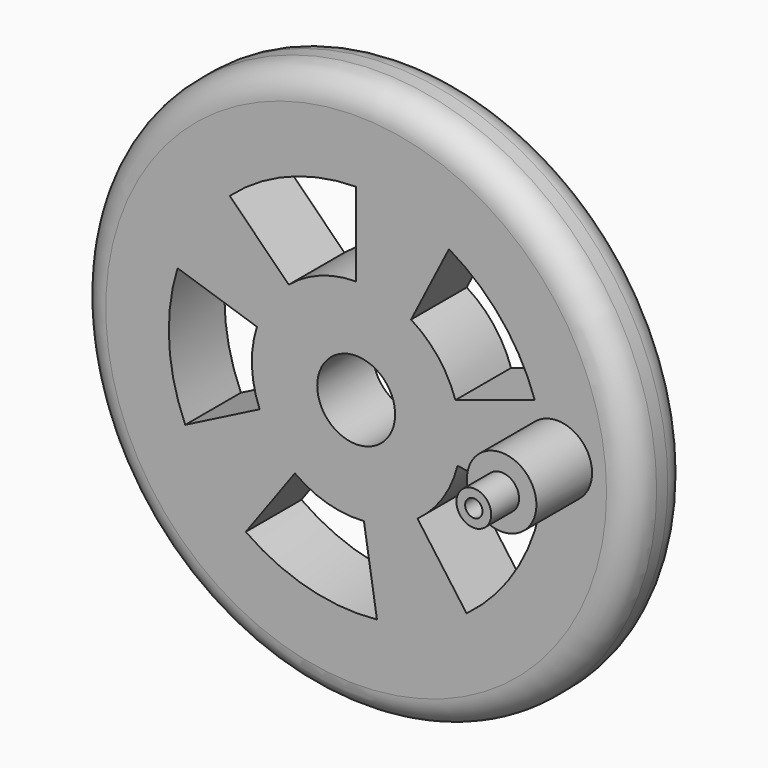
from build123d import *

# Parameters (mm, degrees)
F0_R      = 25.4
F1_DEPTH  = 6.35
F2_R      = 2.54
F4_DEPTH  = 6.35
F6_D      = 7.112
F7_R      = 3.175
F8_DEPTH  = 6.35
F9_R      = 1.5875
F10_DEPTH = 3.175
F12_D     = 1.5875
F12_DEPTH = 6.35
F12_TIP   = 0.4769331164


with BuildPart() as f1:
    # F0 (on Front) → F1 (new body)
    with BuildSketch(Plane.XZ):
        Circle(F0_R)
    extrude(amount=F1_DEPTH)

    # F2
    f2_edges = [f1.edges().sort_by_distance(p)[0] for p in [
        (-25.4, -6.35, 0),
        (-25.4, 0, 0),
    ]]
    fillet(f2_edges, radius=F2_R)

    # F3 (on face) → F4 (cut)
    with BuildSketch(Plane.XZ.offset(6.35)):
        with BuildLine():
            ThreePointArc((-6.1549146928, 7.2692950225), (-3.2776203189, 8.9433120288), (0, 9.525))
            Line((0, 9.525), (0, 17.145))
            ThreePointArc((0, 17.145), (-6.1786433002, 15.9484075566), (-11.5430683654, 12.6574486952))
            Line((-11.5430683654, 12.6574486952), (-6.1549146928, 7.2692950225))
        make_face()
        with BuildLine():
            ThreePointArc((-8.8154836391, -3.6073360267), (-9.5184355619, -0.3535667594), (-9.0588133177, 2.9433868714))
            Line((-9.0588133177, 2.9433868714), (-16.3058639719, 5.2980963686))
            ThreePointArc((-16.3058639719, 5.2980963686), (-17.0771427132, -0.9479100044), (-15.6049533534, -7.0667436347))
            Line((-15.6049533534, -7.0667436347), (-8.8154836391, -3.6073360267))
        make_face()
        with BuildLine():
            Line((1.8986768002, -17.0249364512), (0.7066461766, -9.4987512959))
            ThreePointArc((0.7066461766, -9.4987512959), (-2.6050963781, -9.1618283034), (-5.5986545281, -7.7058868714))
            Line((-5.5986545281, -7.7058868714), (-10.0775781506, -13.8705963686))
            ThreePointArc((-10.0775781506, -13.8705963686), (-4.3756113272, -16.5342481576), (1.8986768002, -17.0249364512))
        make_face()
        with BuildLine():
            Line((16.7784001495, -3.4552457484), (9.2522149942, -2.2632151248))
            ThreePointArc((9.2522149942, -2.2632151248), (7.9083974563, -5.3087545312), (5.5986545281, -7.7058868714))
            Line((5.5986545281, -7.7058868714), (10.0775781506, -13.8705963686))
            ThreePointArc((10.0775781506, -13.8705963686), (14.3728661914, -9.2708173354), (16.7784001495, -3.4552457484))
        make_face()
        with BuildLine():
            ThreePointArc((5.0115371611, 8.1000074249), (7.4927548026, 5.8808375652), (9.0588133177, 2.9433868714))
            Line((9.0588133177, 2.9433868714), (16.3058639719, 5.2980963686))
            ThreePointArc((16.3058639719, 5.2980963686), (13.2585311493, 10.8045679408), (8.4709447691, 14.8894771392))
            Line((8.4709447691, 14.8894771392), (5.0115371611, 8.1000074249))
        make_face()
    extrude(amount=-F4_DEPTH, mode=Mode.SUBTRACT)

    # F6 (through all)
    with Locations(Plane.XZ.offset(6.35)):
        with Locations((0, 0)):
            Hole(F6_D / 2)

    # F7 (on face) → F8 (join)
    with BuildSketch(Plane.XZ.offset(6.35)):
        with Locations((18.3614359412, 1.1536982916)):
            Circle(F7_R)
    extrude(amount=F8_DEPTH)

    # F9 (on face) → F10 (join)
    with BuildSketch(Plane.XZ.offset(12.7)):
        with Locations((18.3614359412, 1.1536982916)):
            Circle(F9_R)
    extrude(amount=F10_DEPTH)

    # F12
    with Locations(Plane.XZ.offset(15.875)):
        with Locations((18.3614359412, 1.1536982916)):
            Hole(F12_D / 2, depth=F12_DEPTH)
            with Locations((0, 0, -(F12_DEPTH + F12_TIP / 2))):  # 118° drill point
                Cone(0, F12_D / 2, F12_TIP, mode=Mode.SUBTRACT)


solid = f1.part
